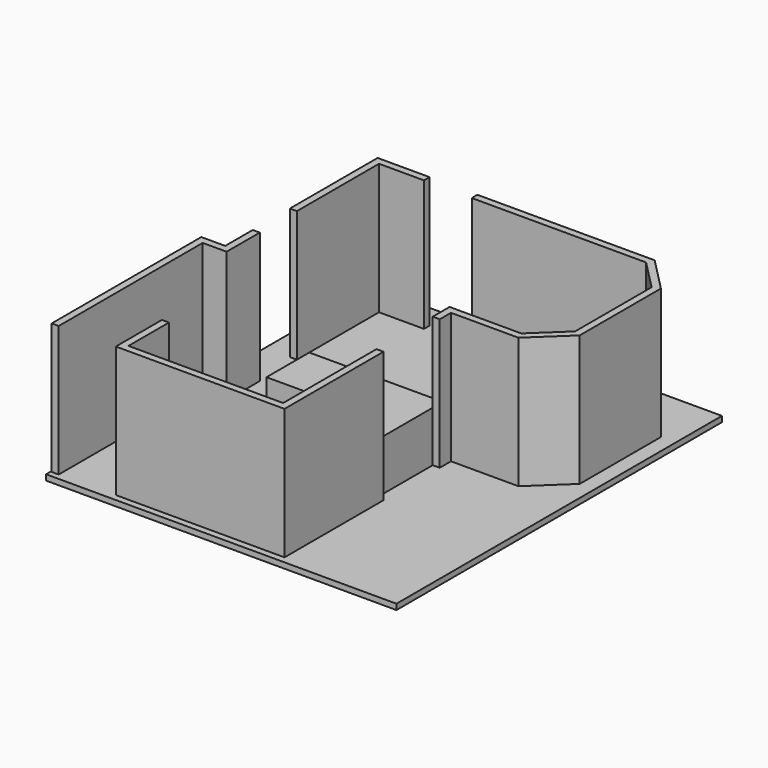
from build123d import *

# Parameters (mm, degrees)
SKETCH001_W  = 249.235731
SKETCH001_H  = 289.366922
PAD_DEPTH    = 4
PAD001_DEPTH = 93
PAD002_DEPTH = 36


with BuildPart() as part:
    # Sketch001 → Pad (new body)
    with BuildSketch(Plane.XY):
        with Locations((101.953362, -122.984355)):
            Rectangle(SKETCH001_W, SKETCH001_H)
    extrude(amount=PAD_DEPTH)

    # Sketch (on Face6 of Pad) → Pad001 (join)
    with BuildSketch(Plane.XY.offset(4)):
        Polygon((-17, -135.5), (0, -135.5), (0, -106), (-5, -106), (-5, -130.5), (-22, -130.5), (-22, -263.55), (-17, -263.55), align=None)
        Polygon((0, 0), (32, 0), (32, 5), (-5, 5), (-5, -73), (0, -73), align=None)
        Polygon((66, 5), (66, 0), (190, 0), (211.023543, -21.401183), (211.023543, -89.401183), (189.213253, -110), (138.213253, -110), (138.213253, -125), (143.213253, -125), (143.213253, -115), (191.201161, -115), (216.023543, -91.5564), (216.023543, -19.356138), (192.097187, 5), align=None)
        Polygon((138.2, -257.999998), (28.2, -257.999998), (28.2, -221.999998), (23.2, -221.999998), (23.2, -262.999998), (143.2, -262.999998), (143.2, -174.999998), (138.2, -174.999998), align=None)
    extrude(amount=PAD001_DEPTH)

    # Sketch002 (on Face5 of Pad001) → Pad002 (join)
    with BuildSketch(Plane.XY.offset(4)):
        Polygon((138.213253, -116), (43.213253, -116), (43.213253, -154), (94.889137, -154), (112.213253, -171.324116), (112.213253, -232.1), (65.2, -232.1), (65.2, -258.1), (138.213253, -258.1), align=None)
    extrude(amount=PAD002_DEPTH)


solid = part.part
